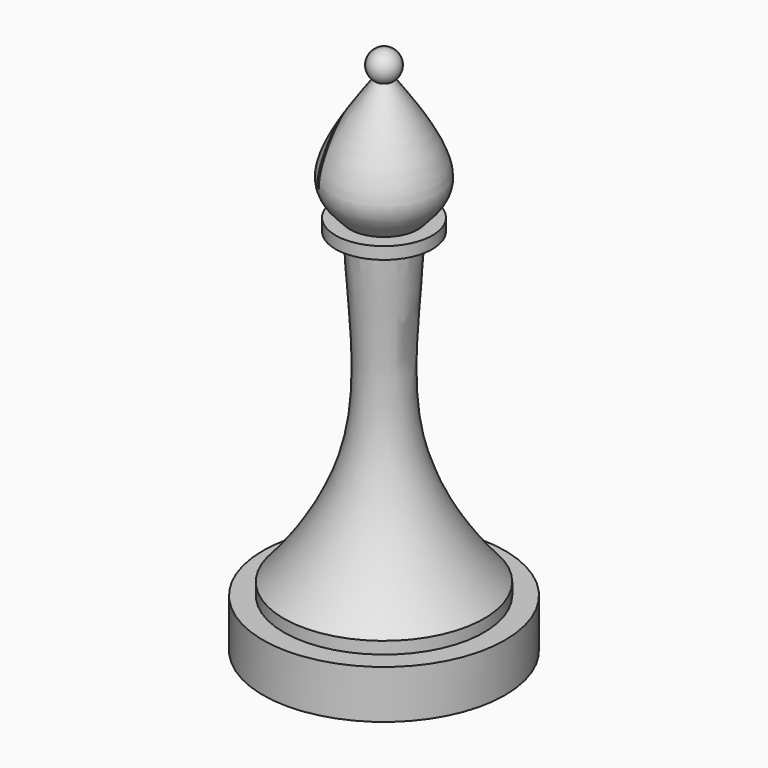
from build123d import *

# Parameters (mm, degrees)
F4_W     = 0.3285910934
F4_H     = 7.1961395442
F5_DEPTH = 38.1


with BuildPart() as f1:
    # F0 (on Front) → F1 (revolve)
    with BuildSketch(Plane.XZ):
        Polygon((-12.7, 0), (0, 0), (0, 5.08), (-10.5053622615, 5.08), (-12.7, 5.08), align=None)
        with BuildLine():
            Line((-10.5053622615, 5.08), (0, 5.08))
            Line((0, 5.08), (0, 21.745795384))
            Line((0, 21.745795384), (0, 27.4026617408))
            Line((0, 27.4026617408), (0, 38.7036968023))
            Line((0, 38.7036968023), (-3.3295838776, 38.7036968023))
            add(Edge.make_bspline(
                [(-10.5053622615, 6.35), (-7.3788208176, 9.8647244593), (-1.0393221328, 19.8952411603), (-3.0709053347, 31.5606674913), (-3.3295838776, 38.7036968023)],
                knots=[0, 0, 0, 0, 0.4719940767, 1, 1, 1, 1], degree=3))
            Line((-10.5053622615, 6.35), (-10.5053622615, 5.08))
        make_face()
        Polygon((-5.08, 38.7036968023), (-3.3295838776, 38.7036968023), (0, 38.7036968023), (0, 39.9736968023), (-5.08, 39.9736968023), align=None)
    revolve(axis=Axis((0, 0, 5.423108103), (0, 0, -1)))


with BuildPart() as f3:
    # F2 (on Front) → F3 (revolve)
    with BuildSketch(Plane.XZ):
        with BuildLine():
            add(Edge.make_bspline(
                [(-3.5681407899, 40.0277860463), (-4.6070800737, 41.0838558378), (-7.2020180746, 43.7215803675), (-3.4235417343, 49.3261366901), (-0.9121126212, 52.8011838167)],
                knots=[0, 0, 0, 0, 0.3734712996, 0.9328118424, 0.9328118424, 0.9328118424, 0.9328118424], degree=3))
            Line((-3.5681407899, 40.0277860463), (0, 40.0581508875))
            Line((0, 40.0581508875), (0, 54.0567561984))
            add(Edge.make_bspline(
                [(-0.9121126212, 52.8011838167), (-0.6104389858, 53.2186075434), (-0.3052194929, 53.6376818709), (0, 54.0567561984)],
                knots=[0.9328118424, 0.9328118424, 0.9328118424, 0.9328118424, 1, 1, 1, 1], degree=3))
        make_face()
        with BuildLine():
            ThreePointArc((0, 55.6086619428), (-1.4759643341, 54.5362775471), (-0.9121126212, 52.8011838167))
            add(Edge.make_bspline(
                [(-0.9121126212, 52.8011838167), (-0.6104389858, 53.2186075434), (-0.3052194929, 53.6376818709), (0, 54.0567561984)],
                knots=[0.9328118424, 0.9328118424, 0.9328118424, 0.9328118424, 1, 1, 1, 1], degree=3))
            Line((0, 54.0567561984), (0, 55.6086619428))
        make_face()
    revolve(axis=Axis((0, 0, 54.8528488725), (0, 0, -1)))

    # F4 (on Front) → F5 (cut, symmetric)
    with BuildSketch(Plane.XZ):
        with Locations((-3.1555218156, 47.1674222499)):
            Rectangle(F4_W, F4_H)
    extrude(amount=F5_DEPTH, both=True, mode=Mode.SUBTRACT)


solid = Compound([f1.part, f3.part])
